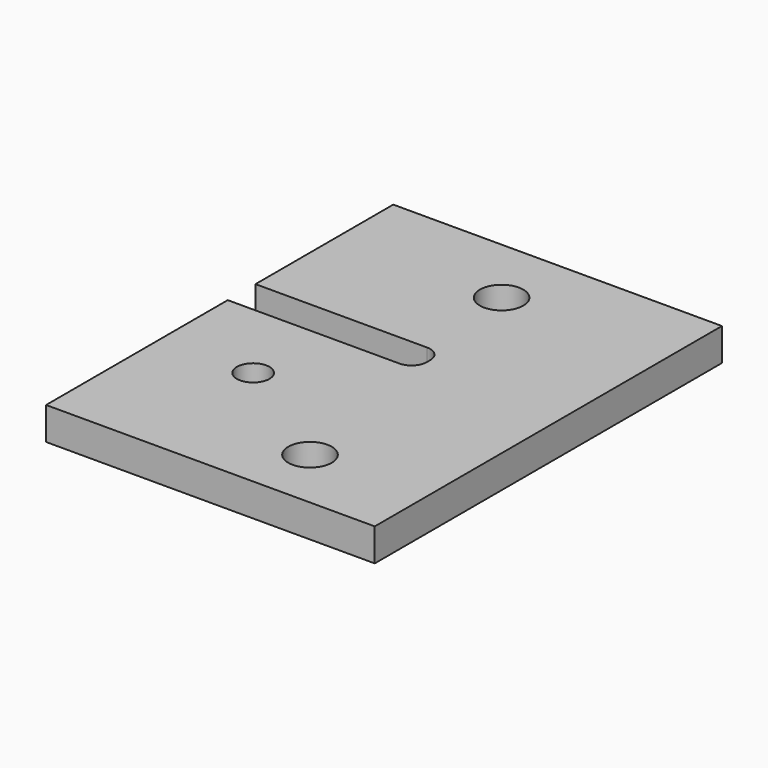
from build123d import *

# Parameters (mm, degrees)
F0_R     = 1.5
F0_R_2   = 2
F1_DEPTH = 3


with BuildPart() as f1:
    # F0 (on Top) → F1 (new body)
    with BuildSketch(Plane.XY):
        with BuildLine():
            Line((0, 20.9), (0, 0))
            Line((0, 0), (30.25, 0))
            Line((30.25, 0), (30.25, 24.091796))
            Line((30.25, 24.091796), (30.25, 39.941796))
            Line((30.25, 39.941796), (0, 39.941796))
            Line((0, 39.941796), (0, 24.091796))
            Line((0, 24.091796), (15.8, 24.091796))
            ThreePointArc((15.8, 24.091796), (16.789949, 23.681745), (17.2, 22.691796))
            Line((17.2, 22.691796), (17.2, 22.3))
            ThreePointArc((17.2, 22.3), (16.789949, 21.310051), (15.8, 20.9))
            Line((15.8, 20.9), (0, 20.9))
        make_face()
        with Locations((8.5, 13.2)):
            Circle(F0_R, mode=Mode.SUBTRACT)
        with Locations((19.65, 5.8)):
            Circle(F0_R_2, mode=Mode.SUBTRACT)
        with Locations((15.125, 33.5)):
            Circle(F0_R_2, mode=Mode.SUBTRACT)
    extrude(amount=F1_DEPTH)


solid = f1.part
